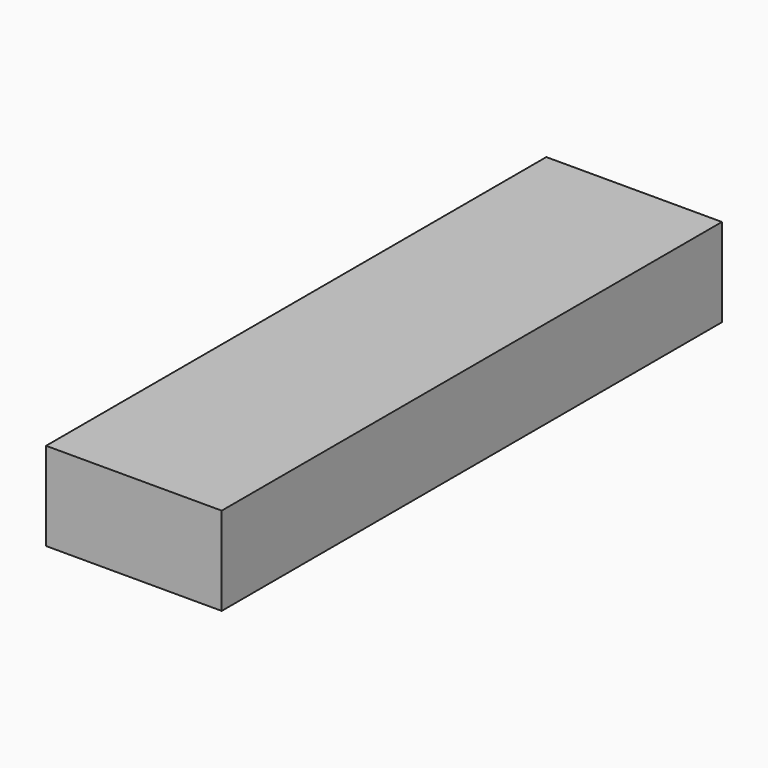
from build123d import *

# Parameters (mm, degrees)
F1_W     = 50.523028
F1_H     = 179.868638
F2_DEPTH = 25.4


with BuildPart() as f2:
    # F1 (on face) → F2 (new body)
    with BuildSketch(Plane.XY):
        with Locations((60.224928, 2.026692)):
            Rectangle(F1_W, F1_H)
    extrude(amount=F2_DEPTH)


solid = f2.part
